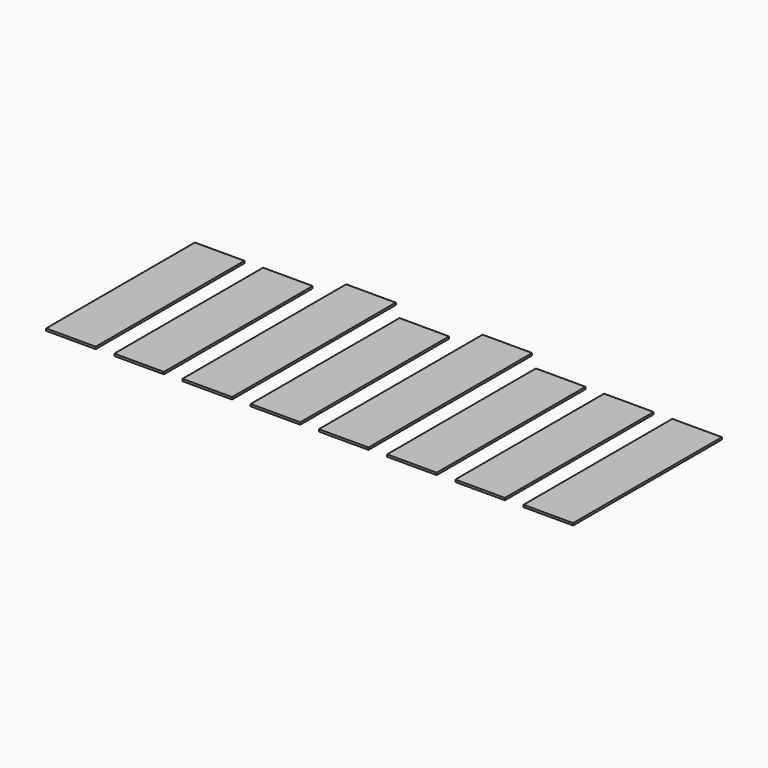
from build123d import *

# Parameters (mm, degrees)
BOX071_W     = 0.8
BOX071_H     = 3
BOX071_DEPTH = 0.035
BOX002_W     = 0.8
BOX002_H     = 3.3
BOX002_DEPTH = 0.035


with BuildPart() as cube:
    # Box071 → Box071 (new body)
    with BuildSketch(Plane(origin=(2.8, 11, -0.035), x_dir=(1, 0, 0), z_dir=(0, 0, 1))):
        with Locations((0.4, 1.5)):
            Rectangle(BOX071_W, BOX071_H)
    extrude(amount=BOX071_DEPTH)


with BuildPart() as link013:
    # Link013 base: copy of Cube
    add(cube.part)


with BuildPart() as link013_1:
    # Link013 placement: moved
    add(link013.part.moved(Location((-1.1, 0, 0))))


with BuildPart() as link014:
    # Link014 base: copy of Cube
    add(cube.part)


with BuildPart() as link014_1:
    # Link014 placement: moved
    add(link014.part.moved(Location((-2.2, 0, 0))))


with BuildPart() as link012:
    # Link012 base: copy of Cube
    add(cube.part)


with BuildPart() as link012_1:
    # Link012 placement: moved
    add(link012.part.moved(Location((-4.4, 0, 0))))


with BuildPart() as link003:
    # Link003 base: copy of Cube
    add(cube.part)


with BuildPart() as link003_1:
    # Link003 placement: moved
    add(link003.part.moved(Location((-6.6, 0, 0))))


with BuildPart() as link011:
    # Link011 base: copy of Cube
    add(cube.part)


with BuildPart() as link011_1:
    # Link011 placement: moved
    add(link011.part.moved(Location((-7.7, 0, 0))))


with BuildPart() as box002:
    # Box002 → Box002 (new body)
    with BuildSketch(Plane(origin=(-0.5, 11, -0.035), x_dir=(1, 0, 0), z_dir=(0, 0, 1))):
        with Locations((0.4, 1.65)):
            Rectangle(BOX002_W, BOX002_H)
    extrude(amount=BOX002_DEPTH)


with BuildPart() as link010:
    # Link010 base: copy of Box002
    add(box002.part)


with BuildPart() as link010_1:
    # Link010 placement: moved
    add(link010.part.moved(Location((-2.2, 0, 0))))


with BuildPart() as contacts:
    # Fusion053 base: copy of Cube
    add(cube.part)

    # Fusion053: union Link013, Link014, Link012, Link003, Link011, Box002, Link010
    add(link013_1.part)
    add(link014_1.part)
    add(link012_1.part)
    add(link003_1.part)
    add(link011_1.part)
    add(box002.part)
    add(link010_1.part)


solid = contacts.part
